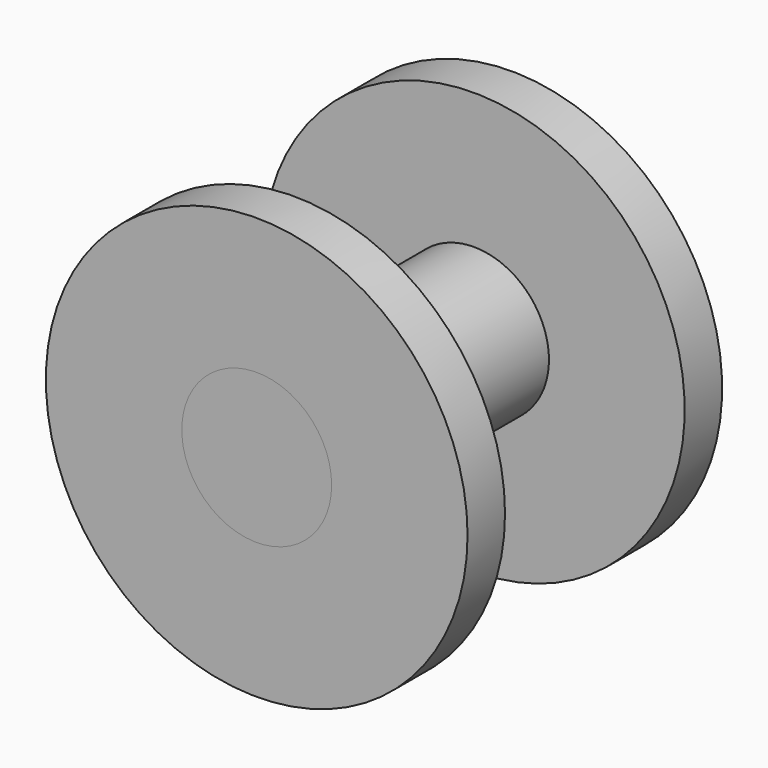
from build123d import *

# Parameters (mm, degrees)
F0_R     = 2.032
F1_DEPTH = 3.048
F2_DEPTH = 3.048
F3_R     = 5.7143595464
F3_R_2   = 2.032
F4_DEPTH = 1.27
F5_R     = 5.718473568
F5_R_2   = 2.032
F6_DEPTH = 1.27
F7_DEPTH = 1.27
F8_DEPTH = 1.27


with BuildPart() as f1:
    # F0 (on Front) → F1 (new body)
    with BuildSketch(Plane.XZ):
        Circle(F0_R)
    extrude(amount=F1_DEPTH)

    # F2 (add): a face of the model
    f2_faces = [f1.faces().sort_by_distance(p)[0] for p in [
        (0, 0, 0),
    ]]
    extrude(f2_faces, amount=F2_DEPTH)


with BuildPart() as f4:
    # F3 (on face) → F4 (new body)
    with BuildSketch(Plane(origin=(0, 3.048, 0), x_dir=(-1, 0, 0), z_dir=(0, 1, 0))):
        Circle(F3_R)
        Circle(F3_R_2, mode=Mode.SUBTRACT)
    extrude(amount=F4_DEPTH)


with BuildPart() as f6:
    # F5 (on face) → F6 (new body)
    with BuildSketch(Plane.XZ.offset(3.048)):
        Circle(F5_R)
        Circle(F5_R_2, mode=Mode.SUBTRACT)
    extrude(amount=F6_DEPTH)


with BuildPart() as f7:
    # F7 (new): a face of the model
    f7_faces = [f1.part.faces().sort_by_distance(p)[0] for p in [
        (0, 3.048, 0),
    ]]
    extrude(f7_faces, amount=F7_DEPTH)


with BuildPart() as f8:
    # F8 (new): a face of the model
    f8_faces = [f1.part.faces().sort_by_distance(p)[0] for p in [
        (0, -3.048, 0),
    ]]
    extrude(f8_faces, amount=F8_DEPTH)


solid = Compound([f1.part, f4.part, f6.part, f7.part, f8.part])
